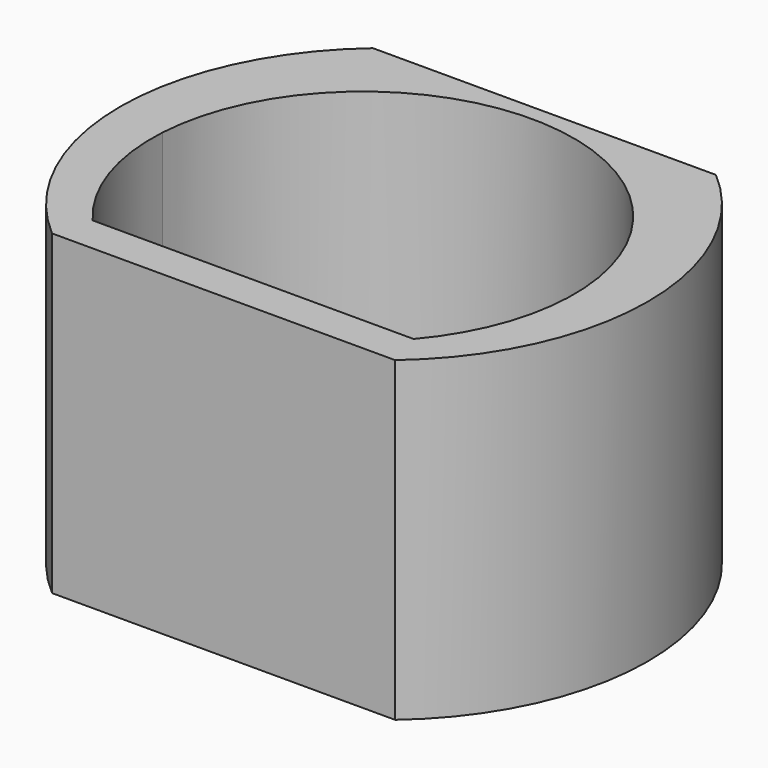
from build123d import *

# Parameters (mm, degrees)
F1_DEPTH = 1.5


with BuildPart() as f1:
    # F0 (on Top) → F1 (new body, symmetric)
    with BuildSketch(Plane.XY):
        with BuildLine():
            Line((0, -1.9), (1.624808, -1.9))
            ThreePointArc((1.624808, -1.9), (2.5, 0), (1.624808, 1.9))
            Line((1.624808, 1.9), (0, 1.9))
            Line((0, 1.9), (-1.624808, 1.9))
            ThreePointArc((-1.624808, 1.9), (-2.5, 0), (-1.624808, -1.9))
            Line((-1.624808, -1.9), (0, -1.9))
        make_face()
        with BuildLine():
            Line((1.519868, -1.55), (-1.519868, -1.55))
            ThreePointArc((-1.519868, -1.55), (-1.896878, -0.883919), (-1.99609, -0.125))
            ThreePointArc((-1.99609, -0.125), (0, 1.75), (1.99609, -0.125))
            ThreePointArc((1.99609, -0.125), (1.896878, -0.883919), (1.519868, -1.55))
        make_face(mode=Mode.SUBTRACT)
    extrude(amount=F1_DEPTH, both=True)


solid = f1.part
